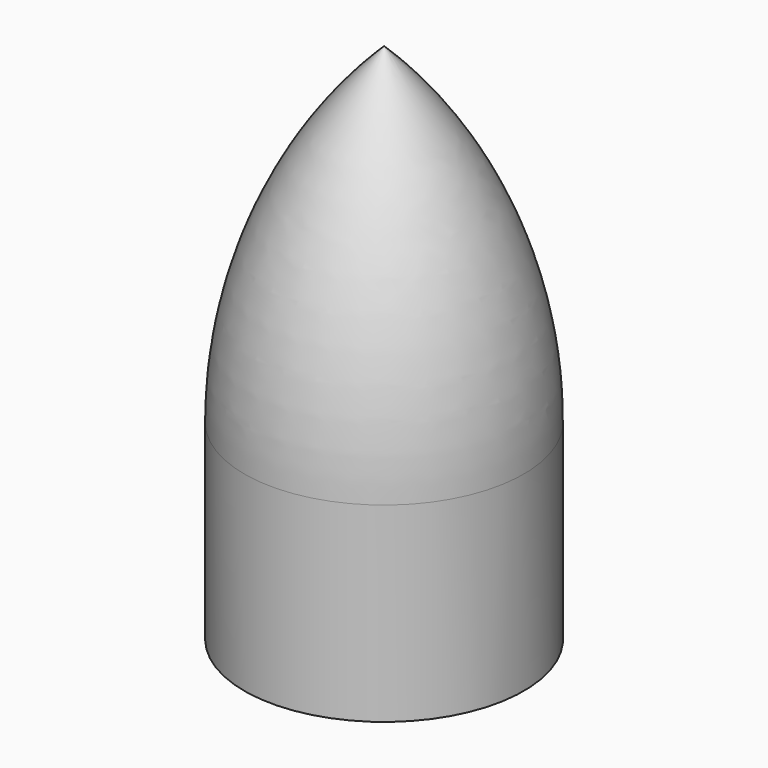
from build123d import *


with BuildPart() as f2:
    # F0 (on Front) → F2 (revolve)
    with BuildSketch(Plane.XZ):
        with BuildLine():
            ThreePointArc((0, 42.0841771066), (-13.1309617706, 22.8371420909), (-17.7499935995, 0))
            Line((-17.7499935995, 0), (-17.2499935995, 0))
            ThreePointArc((-17.2499935995, 0), (-12.7664036683, 22.5100314572), (0, 41.5841771066))
            Line((0, 41.5841771066), (0, 42.0841771066))
        make_face()
        Polygon((-17.7499935995, -24.2499911219), (-17.2499935995, -24.2499911219), (-17.2499935995, -21.7499923607), (-17.2499935995, 0), (-17.7499935995, 0), align=None)
    revolve(axis=Axis((0, 0, 0), (0, 0, 1)))


solid = f2.part
